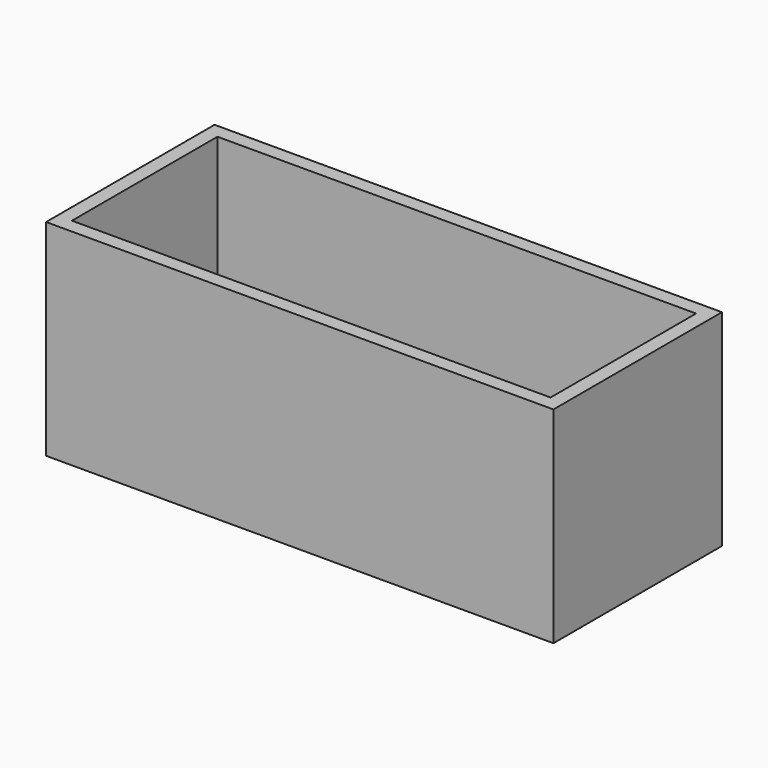
from build123d import *

# Parameters (mm, degrees)
F1_W     = 106
F1_H     = 44
F1_W_2   = 100
F1_H_2   = 38
F2_DEPTH = 40
F3_W     = 106
F3_H     = 44
F3_W_2   = 100
F3_H_2   = 38
F4_DEPTH = 3


with BuildPart() as f2:
    # F1 (on Top) → F2 (new body)
    with BuildSketch(Plane.XY):
        Rectangle(F1_W, F1_H)
        Rectangle(F1_W_2, F1_H_2, mode=Mode.SUBTRACT)
    extrude(amount=-F2_DEPTH)

    # F3 (on face) → F4 (join)
    with BuildSketch(Plane(origin=(0, 0, -40), x_dir=(1, 0, 0), z_dir=(0, 0, -1))):
        Rectangle(F3_W, F3_H)
        Rectangle(F3_W_2, F3_H_2, mode=Mode.SUBTRACT)
        Rectangle(F3_W_2, F3_H_2)
    extrude(amount=F4_DEPTH)


solid = f2.part
